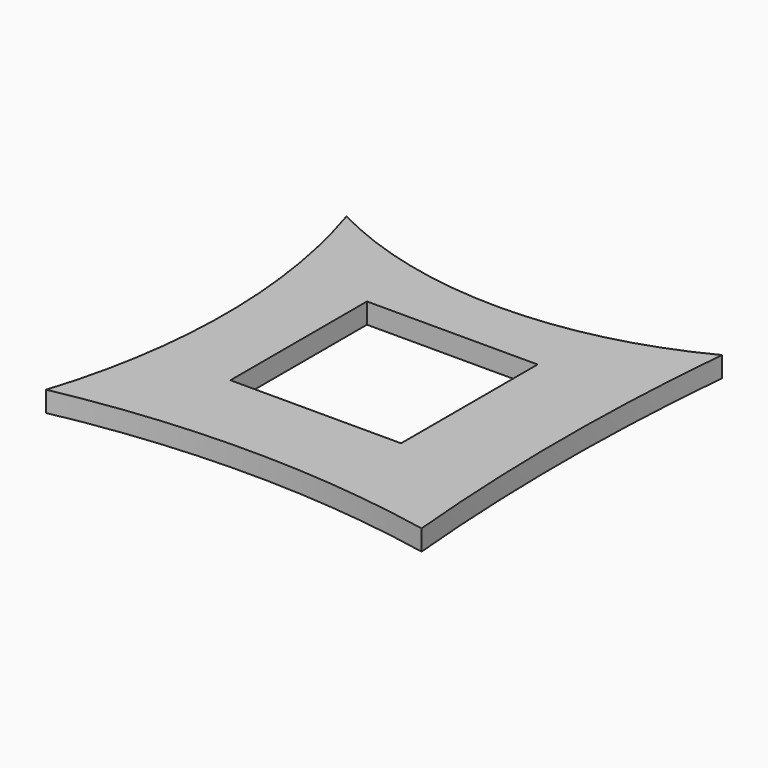
from build123d import *

# Parameters (mm, degrees)
F0_W     = 25
F0_H     = 25
F1_DEPTH = 3


with BuildPart() as f1:
    # F0 (on Top) → F1 (new body)
    with BuildSketch(Plane.XY):
        with BuildLine():
            ThreePointArc((27.5, 27.5), (0, 20.826823), (-27.5, 27.5))
            ThreePointArc((-27.5, 27.5), (-23.195683, 0), (-27.5, -27.5))
            ThreePointArc((-27.5, -27.5), (0, -24.772539), (27.5, -27.5))
            ThreePointArc((27.5, -27.5), (26.236924, 0), (27.5, 27.5))
        make_face()
        Rectangle(F0_W, F0_H, mode=Mode.SUBTRACT)
    extrude(amount=F1_DEPTH)


solid = f1.part
